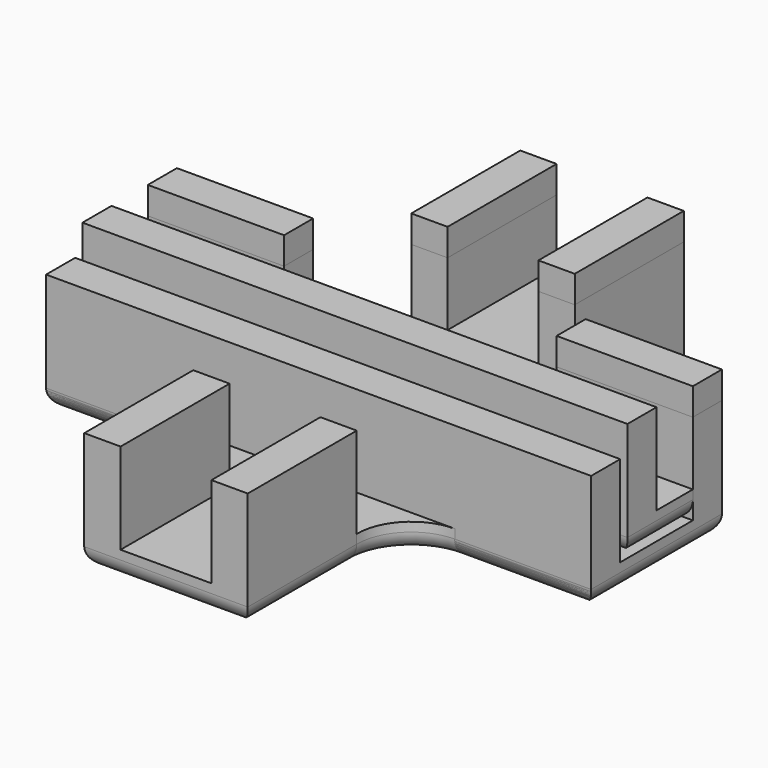
from build123d import *

# Parameters (mm, degrees)
PAD_DEPTH     = 1.5
SKETCH001_W   = 2
SKETCH001_H   = 7.5
SKETCH001_W_2 = 7.5
SKETCH001_H_2 = 2
SKETCH001_W_3 = 30
PAD001_DEPTH  = 5
FILLET_R      = 3
FILLET002_R   = 1
PAD002_DEPTH  = 1.5
SKETCH003_W   = 2
SKETCH003_H   = 7.5
SKETCH003_W_2 = 7.5
SKETCH003_H_2 = 2
PAD003_DEPTH  = 5
FILLET001_R   = 3
FILLET003_R   = 1
PAD004_DEPTH  = 1.5
SKETCH005_W   = 2
SKETCH005_H   = 7.5
SKETCH005_W_2 = 7.5
SKETCH005_H_2 = 2
SKETCH005_W_3 = 30
PAD005_DEPTH  = 5
FILLET004_R   = 3
FILLET005_R   = 1


with BuildPart() as b_t:
    # Sketch (on Sketch) → Pad (new body)
    with BuildSketch(Plane.XY.offset(1.5)):
        Polygon((-15, -2), (15, -2), (15, 4.5), (4.5, 4.5), (4.5, 15), (-4.5, 15), (-4.5, 4.5), (-15, 4.5), align=None)
    extrude(amount=PAD_DEPTH)

    # Sketch001 (on Face10 of Pad) → Pad001 (join)
    with BuildSketch(Plane.XY.offset(3)):
        with Locations((-3.5, 11.25)):
            Rectangle(SKETCH001_W, SKETCH001_H)
        with Locations((3.5, 11.25)):
            Rectangle(SKETCH001_W, SKETCH001_H)
        with Locations((11.25, 3.5)):
            Rectangle(SKETCH001_W_2, SKETCH001_H_2)
        with Locations((-11.25, 3.5)):
            Rectangle(SKETCH001_W_2, SKETCH001_H_2)
        with Locations((0, -1)):
            Rectangle(SKETCH001_W_3, SKETCH001_H_2)
    extrude(amount=PAD001_DEPTH)

    # Fillet
    fillet_edges = [b_t.edges().sort_by_distance(p)[0] for p in [
        (4.5, 4.5, 2.25),
        (-4.5, 4.5, 2.25),
    ]]
    fillet(fillet_edges, radius=FILLET_R)

    # Fillet002
    fillet002_edges = [b_t.edges().sort_by_distance(p)[0] for p in [
        (0, 15, 1.5),
        (-4.5, 11.25, 1.5),
        (-5.37868, 5.37868, 1.5),
        (-11.25, 4.5, 1.5),
        (-15, 1.25, 1.5),
        (0, -2, 1.5),
        (15, 1.25, 1.5),
        (11.25, 4.5, 1.5),
        (5.37868, 5.37868, 1.5),
        (4.5, 11.25, 1.5),
    ]]
    fillet(fillet002_edges, radius=FILLET002_R)


with BuildPart() as b_x:
    # Sketch002 → Pad002 (new body)
    with BuildSketch(Plane.XY):
        Polygon((15, -4.5), (15, 4.5), (4.5, 4.5), (4.5, 15), (-4.5, 15), (-4.5, 4.5), (-15, 4.5), (-15, -4.5), (-4.5, -4.5), (-4.5, -15), (4.5, -15), (4.5, -4.5), align=None)
    extrude(amount=PAD002_DEPTH)

    # Sketch003 (on Face14 of Pad002) → Pad003 (join)
    with BuildSketch(Plane.XY.offset(1.5)):
        with Locations((-3.5, 11.25)):
            Rectangle(SKETCH003_W, SKETCH003_H)
        with Locations((3.5, 11.25)):
            Rectangle(SKETCH003_W, SKETCH003_H)
        with Locations((11.25, 3.5)):
            Rectangle(SKETCH003_W_2, SKETCH003_H_2)
        with Locations((11.25, -3.5)):
            Rectangle(SKETCH003_W_2, SKETCH003_H_2)
        with Locations((3.5, -11.25)):
            Rectangle(SKETCH003_W, SKETCH003_H)
        with Locations((-3.5, -11.25)):
            Rectangle(SKETCH003_W, SKETCH003_H)
        with Locations((-11.25, -3.5)):
            Rectangle(SKETCH003_W_2, SKETCH003_H_2)
        with Locations((-11.25, 3.5)):
            Rectangle(SKETCH003_W_2, SKETCH003_H_2)
    extrude(amount=PAD003_DEPTH)

    # Fillet001
    fillet001_edges = [b_x.edges().sort_by_distance(p)[0] for p in [
        (4.5, -4.5, 0.75),
        (-4.5, -4.5, 0.75),
        (-4.5, 4.5, 0.75),
        (4.5, 4.5, 0.75),
    ]]
    fillet(fillet001_edges, radius=FILLET001_R)

    # Fillet003
    fillet003_edges = [b_x.edges().sort_by_distance(p)[0] for p in [
        (15, 0, 0),
        (11.25, 4.5, 0),
        (5.37868, 5.37868, 0),
        (4.5, 11.25, 0),
        (0, 15, 0),
        (-4.5, 11.25, 0),
        (-5.37868, 5.37868, 0),
        (-11.25, 4.5, 0),
        (-15, 0, 0),
        (-11.25, -4.5, 0),
        (-5.37868, -5.37868, 0),
        (-4.5, -11.25, 0),
        (0, -15, 0),
        (4.5, -11.25, 0),
        (5.37868, -5.37868, 0),
        (11.25, -4.5, 0),
    ]]
    fillet(fillet003_edges, radius=FILLET003_R)


with BuildPart() as b_t2:
    # Sketch004 → Pad004 (new body)
    with BuildSketch(Plane.XY):
        Polygon((-15, -4.5), (15, -4.5), (15, 4.5), (4.5, 4.5), (4.5, 15), (-4.5, 15), (-4.5, 4.5), (-15, 4.5), align=None)
    extrude(amount=PAD004_DEPTH)

    # Sketch005 (on Face10 of Pad004) → Pad005 (join)
    with BuildSketch(Plane.XY.offset(1.5)):
        with Locations((-3.5, 11.25)):
            Rectangle(SKETCH005_W, SKETCH005_H)
        with Locations((3.5, 11.25)):
            Rectangle(SKETCH005_W, SKETCH005_H)
        with Locations((11.25, 3.5)):
            Rectangle(SKETCH005_W_2, SKETCH005_H_2)
        with Locations((-11.25, 3.5)):
            Rectangle(SKETCH005_W_2, SKETCH005_H_2)
        with Locations((0, -3.5)):
            Rectangle(SKETCH005_W_3, SKETCH005_H_2)
    extrude(amount=PAD005_DEPTH)

    # Fillet004
    fillet004_edges = [b_t2.edges().sort_by_distance(p)[0] for p in [
        (4.5, 4.5, 0.75),
        (-4.5, 4.5, 0.75),
    ]]
    fillet(fillet004_edges, radius=FILLET004_R)

    # Fillet005
    fillet005_edges = [b_t2.edges().sort_by_distance(p)[0] for p in [
        (0, -4.5, 0),
        (-15, 0, 0),
        (-11.25, 4.5, 0),
        (-5.37868, 5.37868, 0),
        (-4.5, 11.25, 0),
        (0, 15, 0),
        (4.5, 11.25, 0),
        (5.37868, 5.37868, 0),
        (11.25, 4.5, 0),
        (15, 0, 0),
    ]]
    fillet(fillet005_edges, radius=FILLET005_R)


solid = Compound([b_t.part, b_x.part, b_t2.part])
